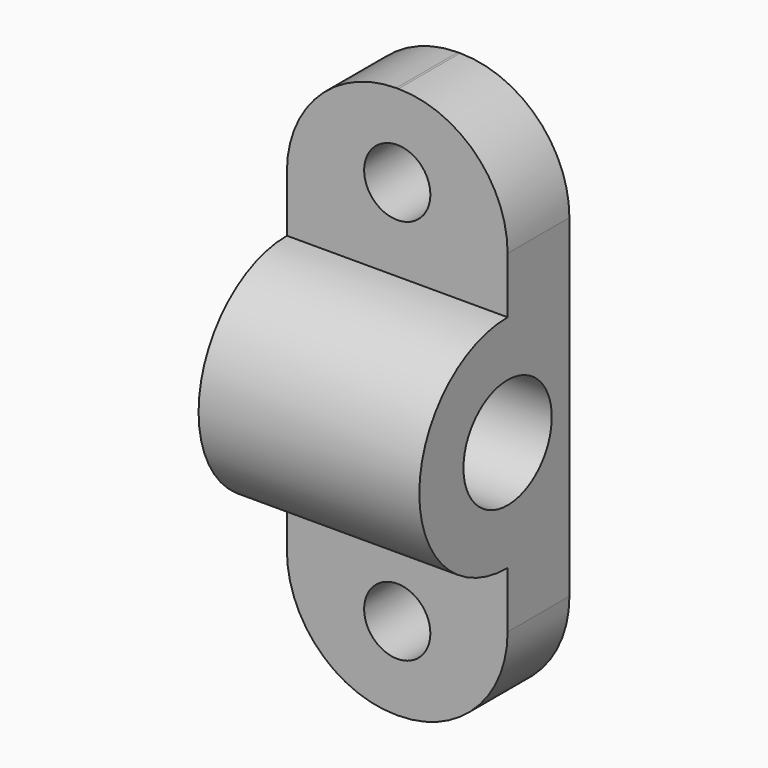
from build123d import *

# Parameters (mm, degrees)
PAD030_DEPTH             = 20
SKETCH021_R              = 5
POCKET001006_DEPTH       = 20.001
FILLET_R                 = 9.9
SKETCH024_R              = 3
POCKET002_DEPTH          = 7.001
CLONE076_ROLL_ANGLE      = 90
CLONE076_PLACEMENT_ANGLE = -90


with BuildPart() as part:
    # Sketch020 → Pad030 (new body)
    with BuildSketch(Plane.XY):
        with BuildLine():
            Line((18, 0), (25, 0))
            Line((25, 0), (25, 15))
            ThreePointArc((25, 15), (35, 25), (25, 35))
            Line((25, 35), (25, 50))
            Line((25, 50), (18, 50))
            Line((18, 50), (18, 0))
        make_face()
    extrude(amount=PAD030_DEPTH)

    # Sketch021 → Pocket001006 (cut, through all)
    with BuildSketch(Plane(origin=(0, 0, 0), x_dir=(1, 0, 0), z_dir=(0, 0, -1))):
        with Locations((25, -25)):
            Circle(SKETCH021_R)
    extrude(amount=-POCKET001006_DEPTH, mode=Mode.SUBTRACT)

    # Fillet
    fillet_edges = [part.edges().sort_by_distance(p)[0] for p in [
        (21.5, 0, 0),
        (21.5, 50, 0),
        (21.5, 50, 20),
        (21.5, 0, 20),
    ]]
    fillet(fillet_edges, radius=FILLET_R)

    # Sketch024 → Pocket002 (cut, through all)
    with BuildSketch(Plane.YZ.offset(25)):
        with Locations((7.5, 10)):
            Circle(SKETCH024_R)
        with Locations((42.5, 10)):
            Circle(SKETCH024_R)
    extrude(amount=-POCKET002_DEPTH, mode=Mode.SUBTRACT)


with BuildPart() as part_1:
    # Clone076 roll: moved
    add(part.part.rotate(Axis((0, 0, 0), (1, 0, 0)), CLONE076_ROLL_ANGLE))


with BuildPart() as part_2:
    # Clone076 placement: moved
    add(part_1.part.moved(Location((120.75, 1500, 0))).rotate(Axis((120.75, 1500, 0), (0, 0, 1)), CLONE076_PLACEMENT_ANGLE))


with BuildPart() as part_3:
    # Clone082 placement: moved
    add(part_2.part.moved(Location((749.5, 0, 0))))


solid = part_3.part
